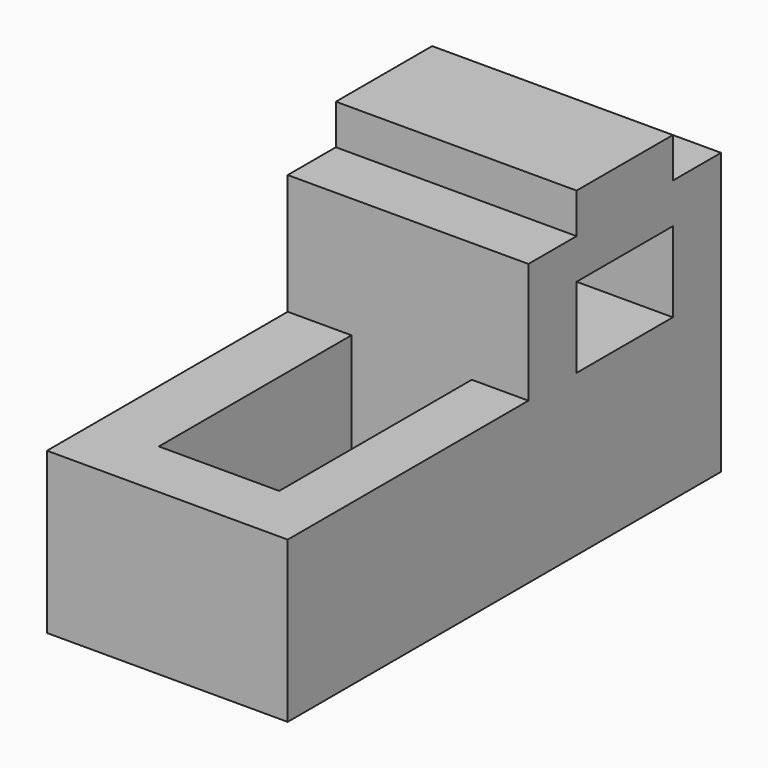
from build123d import *

# Parameters (mm, degrees)
F0_W      = 1219.2
F0_H      = 812.8
F1_DEPTH  = 1524
F3_DEPTH  = 1219.2
F5_W      = 609.6
F5_H      = 406.4
F6_DEPTH  = 1219.201
F7_W      = 609.6
F7_H      = 1219.2
F8_DEPTH  = 609.6
F9_DEPTH  = 609.6
F10_DEPTH = 609.6


with BuildPart() as f1:
    # F0 (on Front) → F1 (new body)
    with BuildSketch(Plane.XZ):
        with Locations((286.850832, 330.789966)):
            Rectangle(F0_W, F0_H)
    extrude(amount=-F1_DEPTH)

    # F2 (on face) → F3 (join)
    with BuildSketch(Plane.YZ.offset(896.450832)):
        Polygon((1524, 737.189966), (1524, -75.610034), (2743.2, -75.610034), (2743.2, 1346.789966), (2438.4, 1346.789966), (2438.4, 1549.989966), (1828.8, 1549.989966), (1828.8, 1346.789966), (1524, 1346.789966), align=None)
    extrude(amount=-F3_DEPTH)

    # F5 (on face) → F6 (cut, through all)
    with BuildSketch(Plane.YZ.offset(896.450832)):
        with Locations((2133.6, 940.389966)):
            Rectangle(F5_W, F5_H)
    extrude(amount=-F6_DEPTH, mode=Mode.SUBTRACT)

    # F7 (on face) → F8 (cut)
    with BuildSketch(Plane.XY.offset(737.189966)):
        with Locations((304.8, 914.4)):
            Rectangle(F7_W, F7_H)
    extrude(amount=F8_DEPTH, mode=Mode.SUBTRACT)

    # F7 (on face) → F9 (join)
    with BuildSketch(Plane.XY.offset(737.189966)):
        with Locations((304.8, 914.4)):
            Rectangle(F7_W, F7_H)
    extrude(amount=-F9_DEPTH)

    # F7 (on face) → F10 (cut)
    with BuildSketch(Plane.XY.offset(737.189966)):
        with Locations((304.8, 914.4)):
            Rectangle(F7_W, F7_H)
    extrude(amount=-F10_DEPTH, mode=Mode.SUBTRACT)


solid = f1.part
